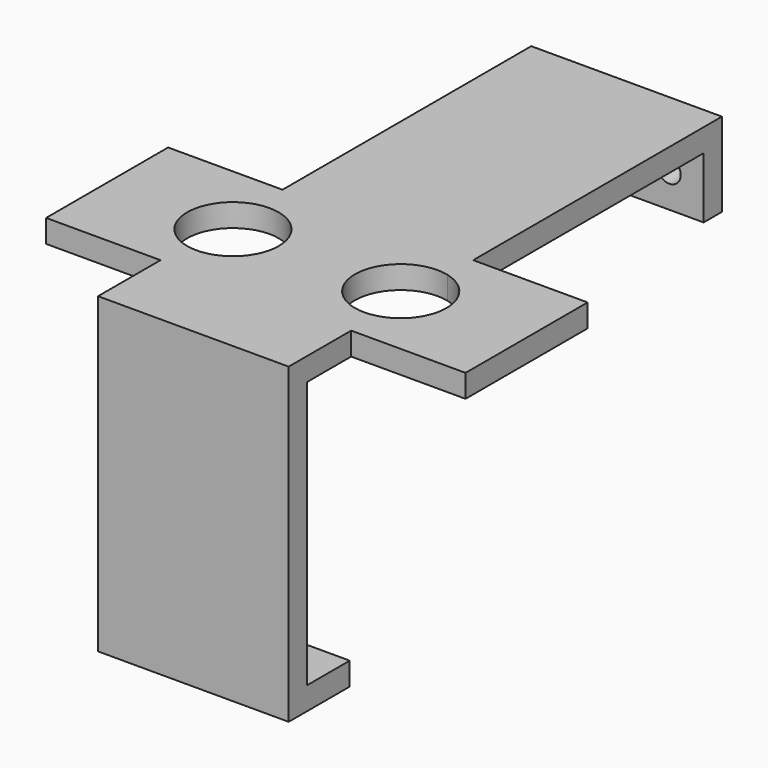
from build123d import *

# Parameters (mm, degrees)
F1_DEPTH = 25
F2_R     = 1.5
F3_DEPTH = 3
F4_R     = 1.5
F5_DEPTH = 3
F7_DEPTH = 3
F8_R     = 6
F9_DEPTH = 3


with BuildPart() as f1:
    # F0 (on Right) → F1 (new body)
    with BuildSketch(Plane.YZ):
        Polygon((0, -3), (0, 0), (-7, 0), (-7, 35), (58, 35), (58, 27), (61, 27), (61, 38), (-10, 38), (-10, -3), align=None)
    extrude(amount=F1_DEPTH)

    # F2 (on face) → F3 (cut)
    with BuildSketch(Plane(origin=(0, 0, -3), x_dir=(1, 0, 0), z_dir=(0, 0, -1))):
        with Locations((20.5, 4.5)):
            Circle(F2_R)
        with Locations((4.5, 4.5)):
            Circle(F2_R)
    extrude(amount=-F3_DEPTH, mode=Mode.SUBTRACT)

    # F4 (on face) → F5 (cut)
    with BuildSketch(Plane(origin=(0, 61, 0), x_dir=(-1, 0, 0), z_dir=(0, 1, 0))):
        with Locations((-20.5, 31.5)):
            Circle(F4_R)
        with Locations((-4.5, 31.5)):
            Circle(F4_R)
    extrude(amount=-F5_DEPTH, mode=Mode.SUBTRACT)

    # F6 (on face) → F7 (join)
    with BuildSketch(Plane.XY.offset(38)):
        with BuildLine():
            Line((0, 16.0444763524), (0, 20.2350013331))
            Line((0, 20.2350013331), (-15, 20.2350013331))
            Line((-15, 20.2350013331), (-15, 0.2350013331))
            Line((-15, 0.2350013331), (0, 0.2350013331))
            Line((0, 0.2350013331), (0, 4.4255263137))
            ThreePointArc((0, 4.4255263137), (-4.5, 10.2350013331), (0, 16.0444763524))
        make_face()
        with BuildLine():
            Line((0, 13.9431005766), (0, 16.0444763524))
            ThreePointArc((0, 16.0444763524), (-4.5, 10.2350013331), (0, 4.4255263137))
            Line((0, 4.4255263137), (0, 6.5269020895))
            ThreePointArc((0, 6.5269020895), (-2.5, 10.2350013331), (0, 13.9431005766))
        make_face()
        with BuildLine():
            Line((0, 16.0444763524), (0, 20.2350013331))
            Line((0, 20.2350013331), (-15, 20.2350013331))
            Line((-15, 20.2350013331), (-15, 0.2350013331))
            Line((-15, 0.2350013331), (0, 0.2350013331))
            Line((0, 0.2350013331), (0, 4.4255263137))
            ThreePointArc((0, 4.4255263137), (-4.5, 10.2350013331), (0, 16.0444763524))
        make_face()
        with BuildLine():
            Line((40, 20.2350013331), (25, 20.2350013331))
            Line((25, 20.2350013331), (25, 16.0444763524))
            ThreePointArc((25, 16.0444763524), (28.2434164903, 13.9092359472), (29.5, 10.2350013331))
            ThreePointArc((29.5, 10.2350013331), (28.2434164903, 6.5607667189), (25, 4.4255263137))
            Line((25, 4.4255263137), (25, 0.2350013331))
            Line((25, 0.2350013331), (40, 0.2350013331))
            Line((40, 0.2350013331), (40, 20.2350013331))
        make_face()
        with BuildLine():
            Line((25, 13.9431005766), (25, 16.0444763524))
            ThreePointArc((25, 16.0444763524), (17.5, 10.2350013331), (25, 4.4255263137))
            Line((25, 4.4255263137), (25, 6.5269020895))
            ThreePointArc((25, 6.5269020895), (19.5, 10.2350013331), (25, 13.9431005766))
        make_face()
        with BuildLine():
            Line((25, 6.5269020895), (25, 13.9431005766))
            ThreePointArc((25, 13.9431005766), (19.5, 10.2350013331), (25, 6.5269020895))
        make_face()
    extrude(amount=-F7_DEPTH)

    # F8 (on face) → F9 (cut)
    with BuildSketch(Plane.XY.offset(38)):
        with Locations((1.5, 10.2350013331)):
            Circle(F8_R)
        with BuildLine():
            ThreePointArc((0, 6.5269020895), (-2.5, 10.2350013331), (0, 13.9431005766))
            Line((0, 13.9431005766), (0, 6.5269020895))
        make_face(mode=Mode.SUBTRACT)
        with BuildLine():
            Line((25, 4.4255263137), (25, 16.0444763524))
            ThreePointArc((25, 16.0444763524), (17.5, 10.2350013331), (25, 4.4255263137))
        make_face()
        with BuildLine():
            ThreePointArc((25, 4.4255263137), (28.2434164903, 6.5607667189), (29.5, 10.2350013331))
            ThreePointArc((29.5, 10.2350013331), (28.2434164903, 13.9092359472), (25, 16.0444763524))
            Line((25, 16.0444763524), (25, 4.4255263137))
        make_face()
    extrude(amount=-F9_DEPTH, mode=Mode.SUBTRACT)


solid = f1.part
